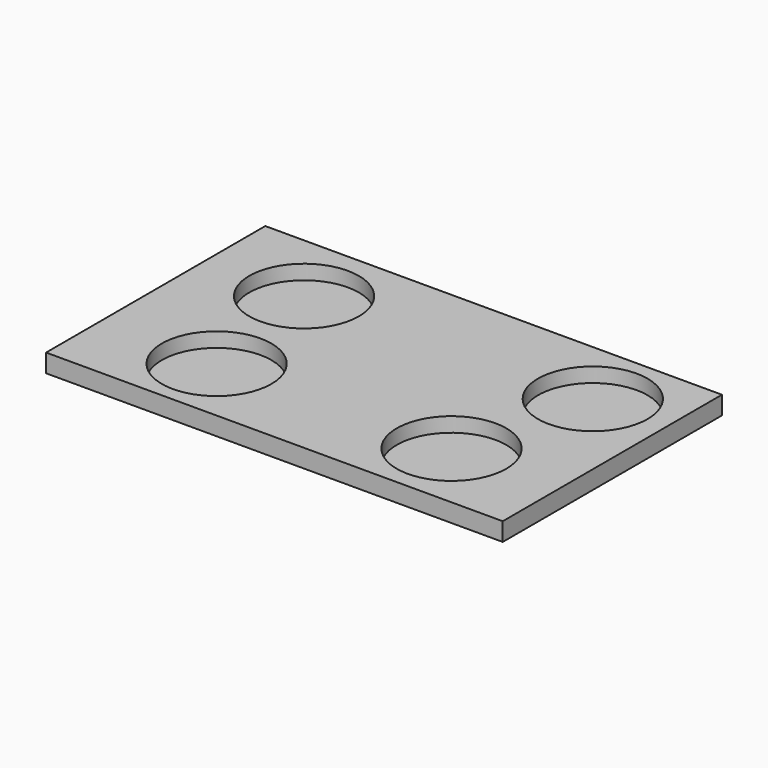
from build123d import *

# Parameters (mm, degrees)
F0_W     = 50
F0_H     = 30
F1_DEPTH = 2
F2_R     = 6
F3_DEPTH = 1.6


with BuildPart() as f1:
    # F0 (on Top) → F1 (new body)
    with BuildSketch(Plane.XY):
        Rectangle(F0_W, F0_H)
    extrude(amount=-F1_DEPTH)

    # F2 (on Top) → F3 (cut)
    with BuildSketch(Plane.XY):
        with Locations((-14.305306, 6.940198)):
            Circle(F2_R)
        with Locations((-12.322392, -7.506745)):
            Circle(F2_R)
        with Locations((13.172213, -7.223471)):
            Circle(F2_R)
        with Locations((16.854765, 7.506745)):
            Circle(F2_R)
    extrude(amount=-F3_DEPTH, mode=Mode.SUBTRACT)


solid = f1.part
